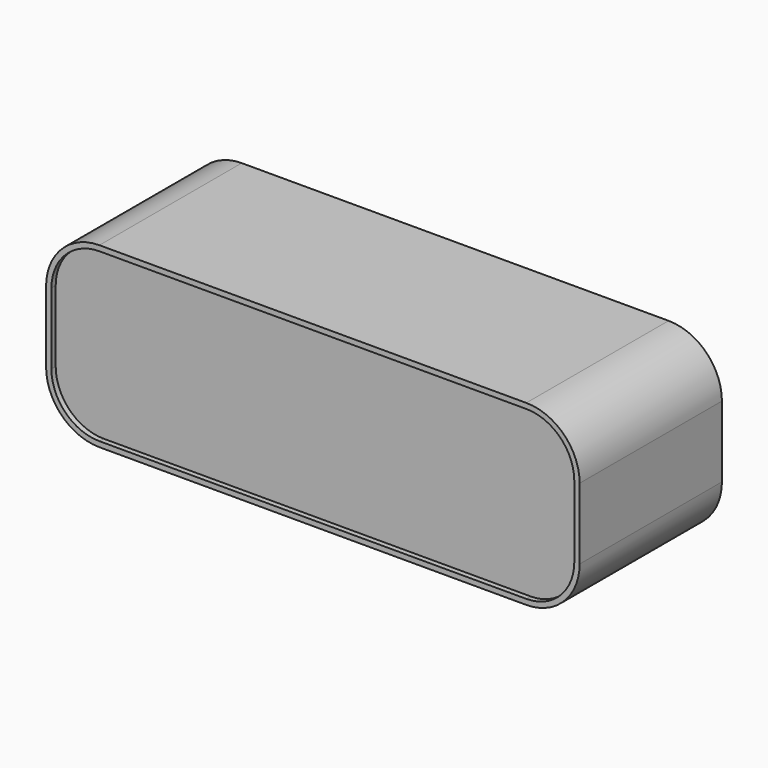
from build123d import *

# Parameters (mm, degrees)
F0_W     = 300
F0_H     = 100
F1_DEPTH = 50
F2_R     = 30
F3_DEPTH = 3


with BuildPart() as f1:
    # F0 (on Front) → F1 (new body, symmetric)
    with BuildSketch(Plane.XZ):
        with Locations((150, 50)):
            Rectangle(F0_W, F0_H)
    extrude(amount=F1_DEPTH, both=True)

    # F2
    f2_edges = [f1.edges().sort_by_distance(p)[0] for p in [
        (0, 0, 100),
        (0, 0, 0),
        (300, 0, 100),
        (300, 0, 0),
    ]]
    fillet(f2_edges, radius=F2_R)

    # F4 (on face) → F3 (cut)
    with BuildSketch(Plane.XZ.offset(50)):
        with BuildLine():
            ThreePointArc((3, 30), (10.908117, 10.908117), (30, 3))
            Line((30, 3), (270, 3))
            ThreePointArc((270, 3), (289.091883, 10.908117), (297, 30))
            Line((297, 30), (297, 70))
            ThreePointArc((297, 70), (289.091883, 89.091883), (270, 97))
            Line((270, 97), (30, 97))
            ThreePointArc((30, 97), (10.908117, 89.091883), (3, 70))
            Line((3, 70), (3, 30))
        make_face()
    extrude(amount=-F3_DEPTH, mode=Mode.SUBTRACT)


solid = f1.part
